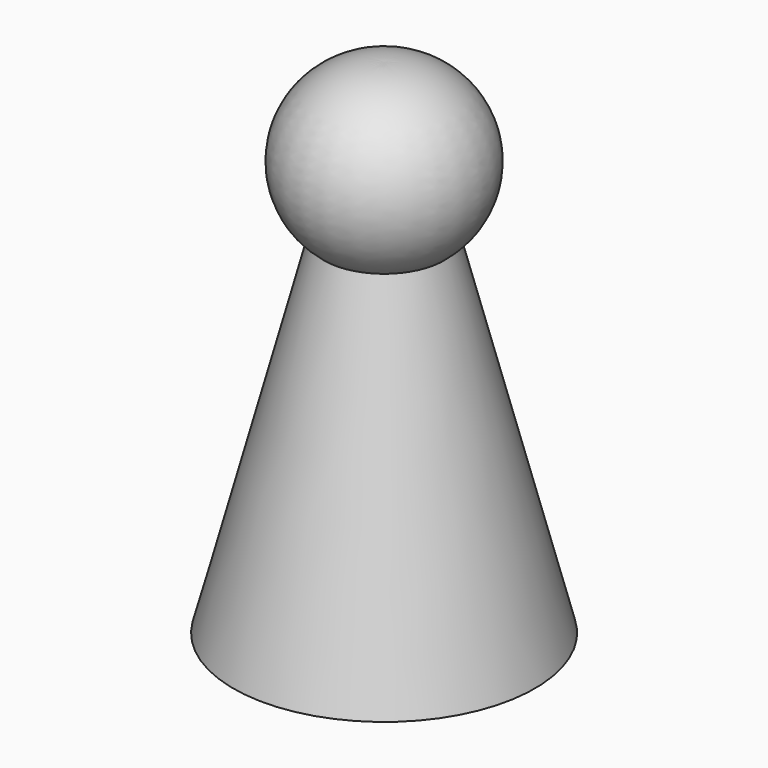
from build123d import *


with BuildPart() as f1:
    # F0 (on Front) → F1 (revolve)
    with BuildSketch(Plane.XZ):
        with BuildLine():
            Line((0, -2.84513), (0, 3.50487))
            ThreePointArc((0, 3.50487), (-1.096562, 2.800409), (-0.756771, 1.542134))
            Line((-0.756771, 1.542134), (-1.905, -2.84513))
            Line((-1.905, -2.84513), (0, -2.84513))
        make_face()
    revolve(axis=Axis((0, 0, 0.32987), (0, 0, -1)))


solid = f1.part
